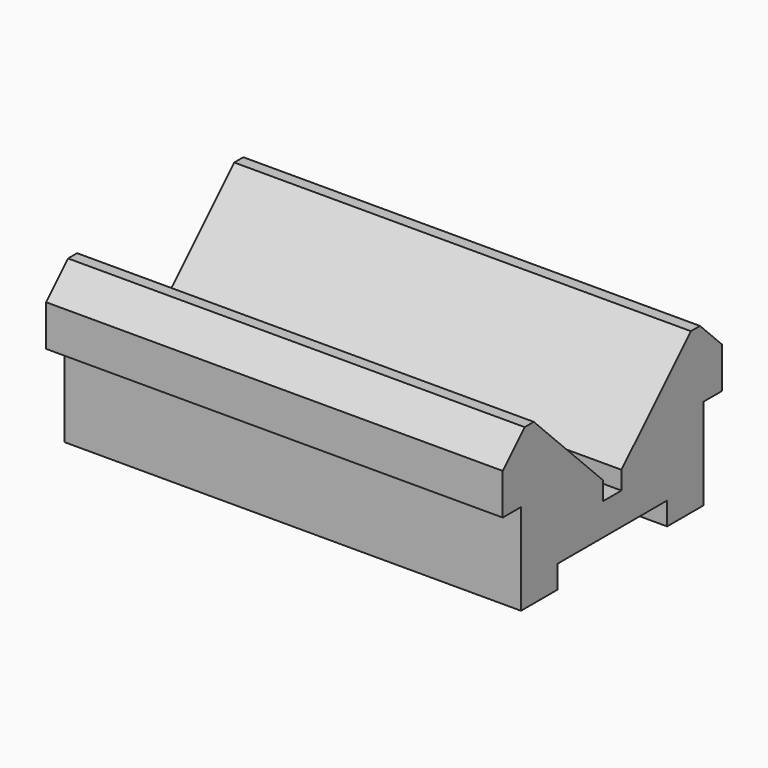
from build123d import *

# Parameters (mm, degrees)
F1_DEPTH = 100


with BuildPart() as f1:
    # F0 (on Right) → F1 (new body)
    with BuildSketch(Plane.YZ):
        Polygon((0, 4), (0, 0), (-5, 0), (-5, 4), (-24, 23), (-26.5, 23), (-32.5, 17), (-32.5, 8), (-27.5, 8), (-27.5, -12), (-17.5, -12), (-17.5, -7), (12.5, -7), (12.5, -12), (22.5, -12), (22.5, 8), (27.5, 8), (27.5, 17), (21.5, 23), (19, 23), align=None)
    extrude(amount=F1_DEPTH)


solid = f1.part
